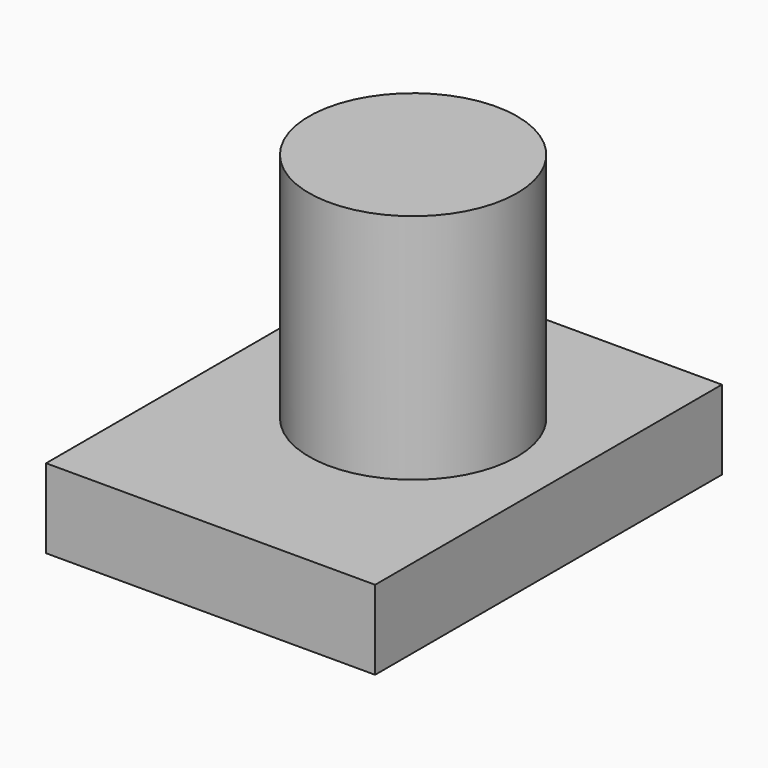
from build123d import *

# Parameters (mm, degrees)
F0_R          = 28.619022
F1_DEPTH      = 95.800422
F2_W          = 90.508705
F2_H          = 21.804128
F3_DEPTH      = 93.832932
F3_DEPTH_BACK = 25.4


with BuildPart() as f1:
    # F0 (on Top) → F1 (new body)
    with BuildSketch(Plane.XY):
        with Locations((24.492977, -28.250135)):
            Circle(F0_R)
    extrude(amount=F1_DEPTH)

    # F2 (on Front) → F3 (join, two sides)
    with BuildSketch(Plane.XZ) as f3_sk:
        with Locations((21.254842, 21.079259)):
            Rectangle(F2_W, F2_H)
    extrude(amount=F3_DEPTH)
    extrude(f3_sk.sketch, amount=-F3_DEPTH_BACK)


solid = f1.part
